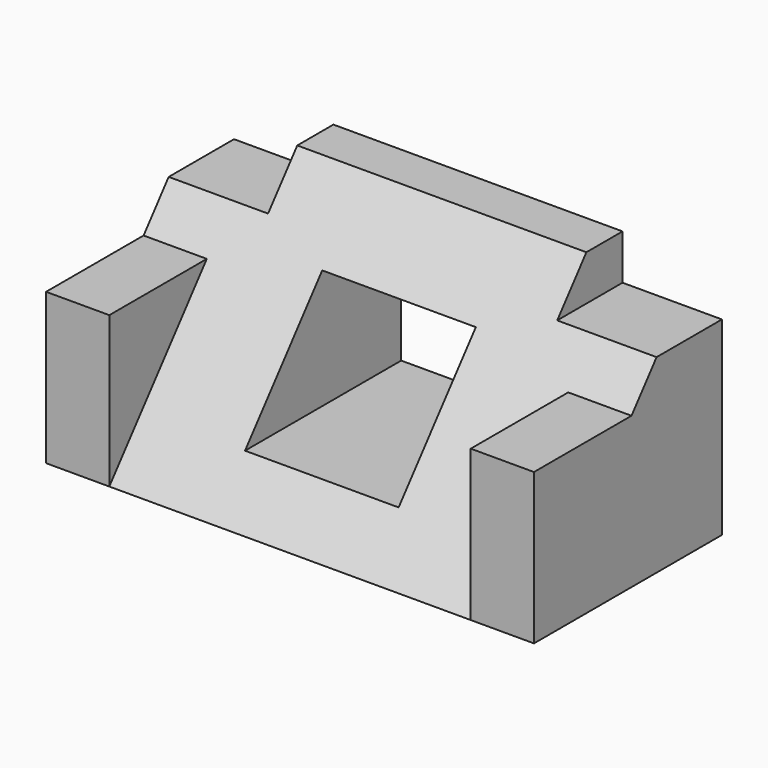
from build123d import *

# Parameters (mm, degrees)
PAD_DEPTH       = 27
SKETCH001_W     = 7
SKETCH001_H     = 26
PAD001_DEPTH    = 16.7
SKETCH002_W     = 11
SKETCH002_H     = 5
POCKET_DEPTH    = 26.001
SKETCH005_W     = 17
SKETCH005_H     = 13.225
POCKET001_DEPTH = 26.001


with BuildPart() as part:
    # Sketch → Pad (new body, symmetric)
    with BuildSketch(Plane.YZ):
        Polygon((8, 13), (-13, -13), (13, -13), (13, 13), align=None)
    extrude(amount=PAD_DEPTH, both=True)

    # Sketch001 (on DatumPlane) → Pad001 (join)
    with BuildSketch(Plane.XY.offset(-13)):
        with Locations((-23.5, 0)):
            Rectangle(SKETCH001_W, SKETCH001_H)
        with Locations((23.5, 0)):
            Rectangle(SKETCH001_W, SKETCH001_H)
    extrude(amount=PAD001_DEPTH)

    # Sketch002 (on DatumPlane) → Pocket (cut, through all)
    with BuildSketch(Plane.XZ.offset(-13)):
        with Locations((-21.5, 10.5)):
            Rectangle(SKETCH002_W, SKETCH002_H)
        with Locations((21.5, 10.5)):
            Rectangle(SKETCH002_W, SKETCH002_H)
    extrude(amount=POCKET_DEPTH, mode=Mode.SUBTRACT)

    # Sketch005 (on DatumPlane) → Pocket001 (cut, through all)
    with BuildSketch(Plane.XZ.offset(-13)):
        with Locations((0, -0.941912)):
            Rectangle(SKETCH005_W, SKETCH005_H)
    extrude(amount=POCKET001_DEPTH, mode=Mode.SUBTRACT)


solid = part.part
